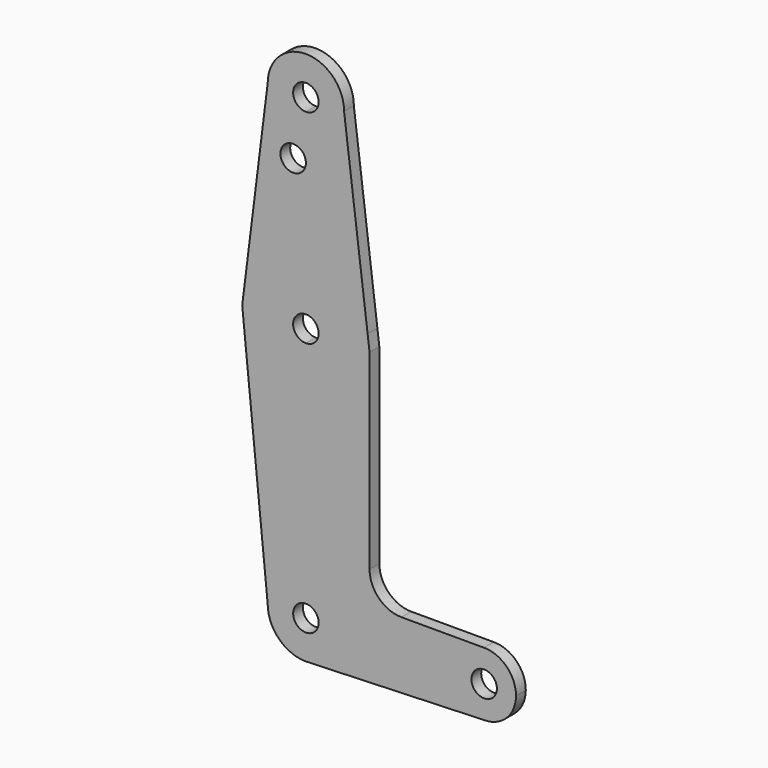
from build123d import *

# Parameters (mm, degrees)
F0_R     = 3.175
F1_DEPTH = 3.048


with BuildPart() as f1:
    # F0 (on Front) → F1 (new body)
    with BuildSketch(Plane.XZ):
        with BuildLine():
            ThreePointArc((-15.3865384615, 67.4076923077), (-9.7463072395, 76.0309664508), (0, 79.375))
            Line((0, 79.375), (0, 99.886942851))
            Line((0, 99.886942851), (0, 104.775))
            ThreePointArc((0, 104.775), (-6.7351920908, 107.5648079092), (-9.525, 114.3))
            Line((-9.525, 114.3), (-15.3865384615, 67.4076923077))
        make_face()
        with Locations((-3.175, 99.886942851)):
            Circle(F0_R, mode=Mode.SUBTRACT)
        with BuildLine():
            ThreePointArc((0, 79.375), (9.7463072395, 76.0309664508), (15.3865384615, 67.4076923077))
            Line((15.3865384615, 67.4076923077), (9.525, 114.3))
            ThreePointArc((9.525, 114.3), (6.7351920908, 107.5648079092), (0, 104.775))
            Line((0, 104.775), (0, 99.886942851))
            Line((0, 99.886942851), (0, 79.375))
        make_face()
        with BuildLine():
            ThreePointArc((0, 104.775), (6.7351920908, 107.5648079092), (9.525, 114.3))
            ThreePointArc((9.525, 114.3), (0, 123.825), (-9.525, 114.3))
            ThreePointArc((-9.525, 114.3), (-6.7351920908, 107.5648079092), (0, 104.775))
        make_face()
        with BuildLine():
            ThreePointArc((3.175, 114.3), (2.2450640303, 112.0549359697), (0, 111.125))
            ThreePointArc((0, 111.125), (-2.2450640303, 116.5450640303), (3.175, 114.3))
        make_face(mode=Mode.SUBTRACT)
        with BuildLine():
            Line((0, 60.325), (0, 47.625))
            ThreePointArc((0, 47.625), (11.2253201513, 52.2746798487), (15.875, 63.5))
            Line((15.875, 63.5), (15.3865384615, 67.4076923077))
            ThreePointArc((15.3865384615, 67.4076923077), (9.7463072395, 76.0309664508), (0, 79.375))
            Line((0, 79.375), (0, 66.675))
            ThreePointArc((0, 66.675), (2.2450640303, 65.7450640303), (3.175, 63.5))
            ThreePointArc((3.175, 63.5), (2.2450640303, 61.2549359697), (0, 60.325))
        make_face()
        with BuildLine():
            ThreePointArc((-15.5606435644, 60.3564356436), (-10.0526499203, 51.2134278751), (0, 47.625))
            Line((0, 47.625), (0, 60.325))
            ThreePointArc((0, 60.325), (-3.175, 63.5), (0, 66.675))
            Line((0, 66.675), (0, 79.375))
            ThreePointArc((0, 79.375), (-9.7463072395, 76.0309664508), (-15.3865384615, 67.4076923077))
            Line((-15.3865384615, 67.4076923077), (-15.875, 63.5))
            Line((-15.875, 63.5), (-15.5606435644, 60.3564356436))
        make_face()
        with BuildLine():
            ThreePointArc((-9.525, 0), (-6.7351920908, 6.7351920908), (0, 9.525))
            Line((0, 9.525), (0, 47.625))
            ThreePointArc((0, 47.625), (-10.0526499203, 51.2134278751), (-15.5606435644, 60.3564356436))
            Line((-15.5606435644, 60.3564356436), (-9.525, 0))
        make_face()
        with BuildLine():
            Line((36.5125, 0), (9.525, 0))
            ThreePointArc((9.525, 0), (6.9712901065, -6.4905114784), (0.6794904459, -9.5007324841))
            Line((0.6794904459, -9.5007324841), (44.45, -7.9375))
            ThreePointArc((44.45, -7.9375), (38.8373399243, -5.6126600757), (36.5125, 0))
        make_face()
        with BuildLine():
            ThreePointArc((3.175, 0), (-2.2450640303, -2.2450640303), (0, 3.175))
            Line((0, 3.175), (0, 9.525))
            ThreePointArc((0, 9.525), (-6.7351920908, 6.7351920908), (-9.525, 0))
            ThreePointArc((-9.525, 0), (-6.7351920908, -6.7351920908), (0, -9.525))
            Line((0, -9.525), (0.6794904459, -9.5007324841))
            ThreePointArc((0.6794904459, -9.5007324841), (6.9712901065, -6.4905114784), (9.525, 0))
            Line((9.525, 0), (3.175, 0))
        make_face()
        with BuildLine():
            Line((0, 47.625), (0, 9.525))
            ThreePointArc((0, 9.525), (6.7351920908, 6.7351920908), (9.525, 0))
            Line((9.525, 0), (36.5125, 0))
            ThreePointArc((36.5125, 0), (38.8373399243, 5.6126600757), (44.45, 7.9375))
            Line((44.45, 7.9375), (23.8252, 7.9375))
            ThreePointArc((23.8252, 7.9375), (18.2035596682, 10.2660596682), (15.875, 15.8877))
            Line((15.875, 15.8877), (15.875, 63.5))
            ThreePointArc((15.875, 63.5), (11.2253201513, 52.2746798487), (0, 47.625))
        make_face()
        with BuildLine():
            Line((0, 9.525), (0, 3.175))
            ThreePointArc((0, 3.175), (2.2450640303, 2.2450640303), (3.175, 0))
            Line((3.175, 0), (9.525, 0))
            ThreePointArc((9.525, 0), (6.7351920908, 6.7351920908), (0, 9.525))
        make_face()
        with BuildLine():
            ThreePointArc((44.45, 7.9375), (38.8373399243, 5.6126600757), (36.5125, 0))
            ThreePointArc((36.5125, 0), (38.8373399243, -5.6126600757), (44.45, -7.9375))
            ThreePointArc((44.45, -7.9375), (50.0626600757, -5.6126600757), (52.3875, 0))
            ThreePointArc((52.3875, 0), (50.0626600757, 5.6126600757), (44.45, 7.9375))
        make_face()
        with BuildLine():
            ThreePointArc((47.625, 0), (44.45, -3.175), (41.275, 0))
            ThreePointArc((41.275, 0), (44.45, 3.175), (47.625, 0))
        make_face(mode=Mode.SUBTRACT)
    extrude(amount=F1_DEPTH)


solid = f1.part
